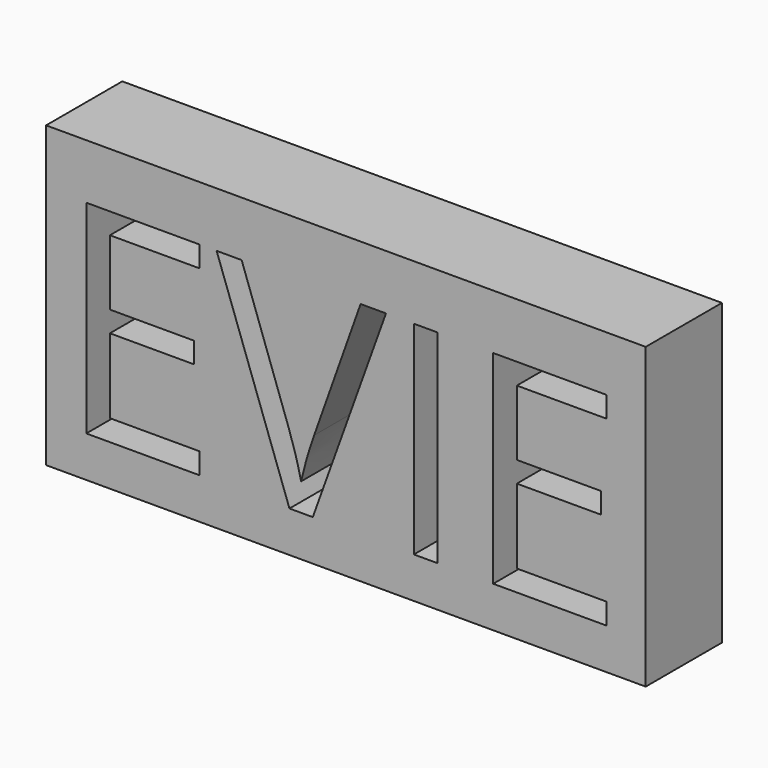
from build123d import *

# Parameters (mm, degrees)
F0_W     = 125.8938722312
F0_H     = 62.8035478294
F0_W_2   = 4.9569368675
F0_H_2   = 42.6520612952
F1_DEPTH = 20


with BuildPart() as f1:
    # F0 (on Front) → F1 (new body)
    with BuildSketch(Plane.XZ):
        with Locations((2.0074192435, 2.8677415103)):
            Rectangle(F0_W, F0_H)
        Polygon((-28.719614941, -15.4966360104), (-28.719614941, -19.9308074079), (-52.4961087293, -19.9308074079), (-52.4961087293, 22.7212538872), (-28.719614941, 22.7212538872), (-28.719614941, 18.3150877828), (-47.5391718618, 18.3150877828), (-47.5391718618, 4.5738239993), (-29.8584968578, 4.5738239993), (-29.8584968578, 0.1956631879), (-47.5391718618, 0.1956631879), (-47.5391718618, -15.4966360104), align=None, mode=Mode.SUBTRACT)
        with BuildLine():
            Line((-4.6537331246, -4.7052630936), (5.0921088522, 22.7212538872))
            Line((5.0921088522, 22.7212538872), (10.4224496269, 22.7212538872))
            Line((10.4224496269, 22.7212538872), (-4.9431211527, -19.9308074079))
            Line((-4.9431211527, -19.9308074079), (-9.8440474341, -19.9308074079))
            Line((-9.8440474341, -19.9308074079), (-25.1349374323, 22.7212538872))
            Line((-25.1349374323, 22.7212538872), (-19.879277439, 22.7212538872))
            Line((-19.879277439, 22.7212538872), (-10.0774248761, -4.8732948518))
            add(Edge.make_bspline(
                [(-10.0774248761, -4.8732948518), (-8.3877721962, -9.634194668), (-7.3982518423, -14.1243766516)],
                knots=[0, 0, 0, 1, 1, 1], degree=2))
            add(Edge.make_bspline(
                [(-7.3982518423, -14.1243766516), (-6.3433858045, -9.4008172261), (-4.6537331246, -4.7052630936)],
                knots=[0, 0, 0, 1, 1, 1], degree=2))
        make_face(mode=Mode.SUBTRACT)
        with Locations((18.763359403, 1.3952232396)):
            Rectangle(F0_W_2, F0_H_2, mode=Mode.SUBTRACT)
        Polygon((56.7151990169, -15.4966360104), (56.7151990169, -19.9308074079), (32.9387052285, -19.9308074079), (32.9387052285, 22.7212538872), (56.7151990169, 22.7212538872), (56.7151990169, 18.3150877828), (37.8956420961, 18.3150877828), (37.8956420961, 4.5738239993), (55.5763171, 4.5738239993), (55.5763171, 0.1956631879), (37.8956420961, 0.1956631879), (37.8956420961, -15.4966360104), align=None, mode=Mode.SUBTRACT)
    extrude(amount=F1_DEPTH)


solid = f1.part
